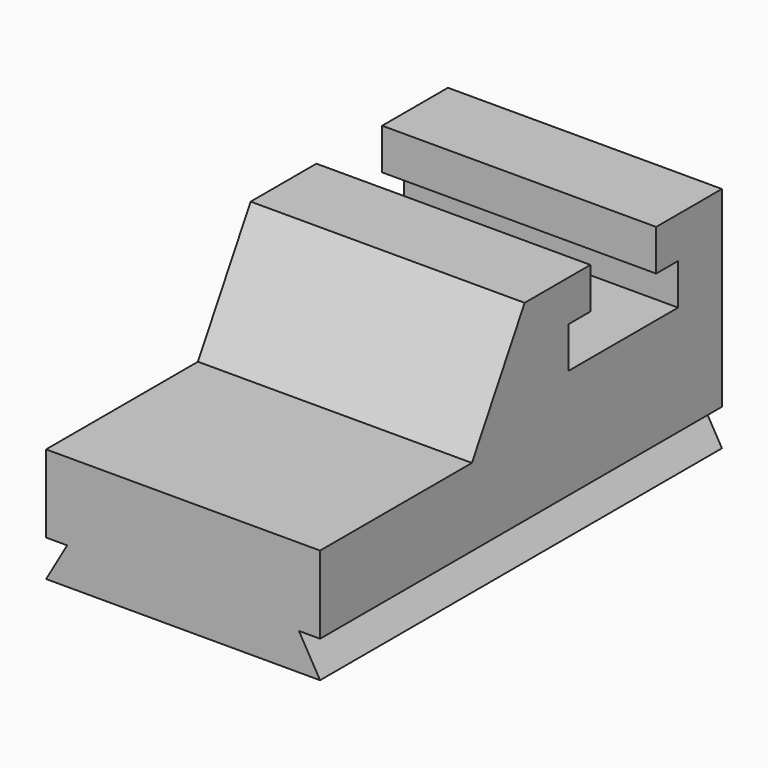
from build123d import *

# Parameters (mm, degrees)
F1_DEPTH = 1524
F3_DEPTH = 2794.001


with BuildPart() as f1:
    # F0 (on Right) → F1 (new body)
    with BuildSketch(Plane.YZ):
        Polygon((0, -1270), (0, 0), (-457.2, 0), (-457.2, -228.6), (-304.8, -228.6), (-304.8, -457.2), (-1066.8, -457.2), (-1066.8, -228.6), (-914.4, -228.6), (-914.4, 0), (-1371.6, 0), (-1738.217421, -635), (-2794, -635), (-2794, -1270), align=None)
    extrude(amount=F1_DEPTH)

    # F2 (on face) → F3 (cut, through all)
    with BuildSketch(Plane.XZ.offset(2794)):
        Polygon((0, -1066.8), (0, -1270), (117.317575, -1066.8), align=None)
        Polygon((1406.682425, -1066.8), (1524, -1270), (1524, -1066.8), align=None)
    extrude(amount=-F3_DEPTH, mode=Mode.SUBTRACT)


solid = f1.part
